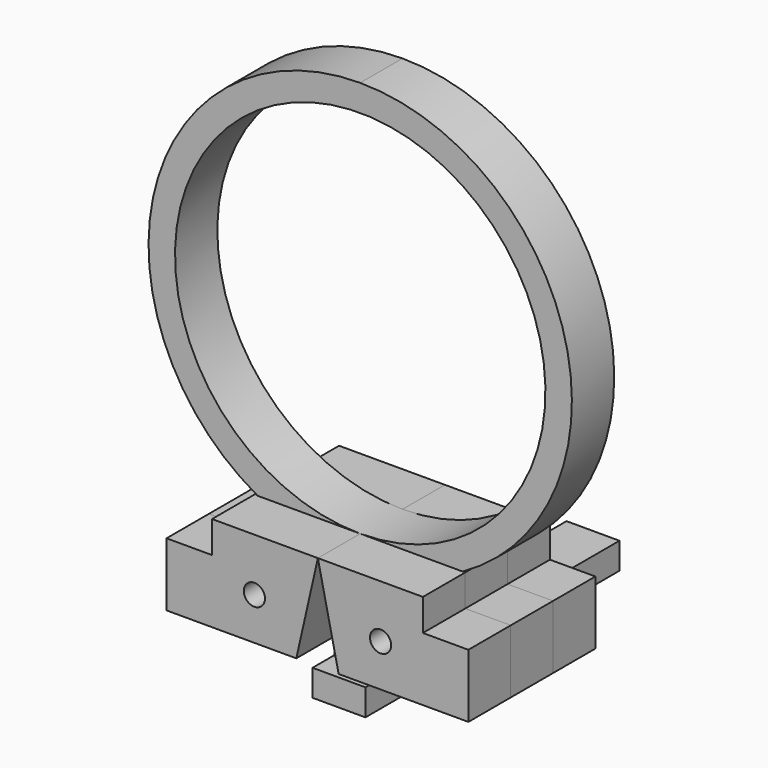
from build123d import *

# Parameters (mm, degrees)
F1_DEPTH   = 12.7
F2_DEPTH   = 6.35
F3_DEPTH   = 6.35
F5_DEPTH   = 3.175
F8_D       = 2.54
F8_DEPTH   = 25.4
F8_TIP     = 0.7630929862
F8_2_D     = 2.54
F8_2_DEPTH = 25.4
F8_2_TIP   = 0.7630929862
F9_D       = 2.54
F9_DEPTH   = 25.4
F9_TIP     = 0.7630929862
F9_2_D     = 2.54
F9_2_DEPTH = 25.4
F9_2_TIP   = 0.7630929862


with BuildPart() as f1:
    # F0 (on Front) → F1 (new body)
    with BuildSketch(Plane.XZ):
        with BuildLine():
            Line((12.6008983988, 3.1746178865), (12.29603147, 3.1746178865))
            ThreePointArc((12.29603147, 3.1746178865), (7.7922258762, 1.2247809546), (2.9975086375, 0.1774913625))
            Line((2.9975086375, 0.1774913625), (0, 3.1746178865))
            Line((0, 3.1746178865), (2.4904491994, -8.2553821135))
            Line((2.4904491994, -8.2553821135), (18.0618983988, -8.2553821135))
            Line((18.0618983988, -8.2553821135), (18.0618983988, -0.6353821135))
            Line((18.0618983988, -0.6353821135), (12.6008983988, -0.6353821135))
            Line((12.6008983988, -0.6353821135), (12.6008983988, 3.1746178865))
        make_face()
        with BuildLine():
            ThreePointArc((2.9975086375, 0.1774913625), (7.7922258762, 1.2247809546), (12.29603147, 3.1746178865))
            Line((12.29603147, 3.1746178865), (0, 3.1746178865))
            Line((0, 3.1746178865), (2.9975086375, 0.1774913625))
        make_face()
    extrude(amount=F1_DEPTH)



with BuildPart() as f1b:
    # F0 (on Front) → F1, piece 2 (new body)
    with BuildSketch(Plane.XZ):
        with BuildLine():
            ThreePointArc((-2.9975086375, 0.1774913625), (-7.7922258762, 1.2247809546), (-12.29603147, 3.1746178865))
            Line((-12.29603147, 3.1746178865), (-12.7, 3.1746178865))
            Line((-12.7, 3.1746178865), (-12.7, -0.6353821135))
            Line((-12.7, -0.6353821135), (-18.161, -0.6353821135))
            Line((-18.161, -0.6353821135), (-18.161, -8.2553821135))
            Line((-18.161, -8.2553821135), (-2.5895508006, -8.2553821135))
            Line((-2.5895508006, -8.2553821135), (0, 3.1746178865))
            Line((0, 3.1746178865), (-2.9975086375, 0.1774913625))
        make_face()
        with BuildLine():
            Line((0, 3.1746178865), (-12.29603147, 3.1746178865))
            ThreePointArc((-12.29603147, 3.1746178865), (-7.7922258762, 1.2247809546), (-2.9975086375, 0.1774913625))
            Line((-2.9975086375, 0.1774913625), (0, 3.1746178865))
        make_face()
    extrude(amount=F1_DEPTH)


with BuildPart() as f1_1:
    add(f1.part)

    add(f1b.part)  # F2 merges F1b
    # F1_face (on face) → F2 (join)
    with BuildSketch(Plane(origin=(8.9471233845, 0, -2.8446774946), x_dir=(1, 0, 0), z_dir=(0, 1, 0))):
        Polygon((3.6537750143, -6.0192953811), (3.6537750143, -2.2092953811), (9.1147750143, -2.2092953811), (9.1147750143, 5.4107046189), (-6.4566741851, 5.4107046189), (-8.9471233845, -6.0192953811), align=None)
        Polygon((-21.6471233845, -2.2092953811), (-21.6471233845, -6.0192953811), (-8.9471233845, -6.0192953811), (-11.5366741851, 5.4107046189), (-27.1081233845, 5.4107046189), (-27.1081233845, -2.2092953811), align=None)
    extrude(amount=F2_DEPTH)

    # F8
    with Locations(Plane.XZ.offset(12.7)):
        with Locations((-7.62, -3.1753821135)):
            Hole(F8_D / 2, depth=F8_DEPTH)
            with Locations((0, 0, -(F8_DEPTH + F8_TIP / 2))):  # 118° drill point
                Cone(0, F8_D / 2, F8_TIP, mode=Mode.SUBTRACT)

    # F9
    with Locations(Plane.XZ.offset(12.7)):
        with Locations((7.5208983988, -3.1753821135)):
            Hole(F9_D / 2, depth=F9_DEPTH)
            with Locations((0, 0, -(F9_DEPTH + F9_TIP / 2))):  # 118° drill point
                Cone(0, F9_D / 2, F9_TIP, mode=Mode.SUBTRACT)


with BuildPart() as f3:
    # F0 (on Front) → F3 (new body)
    with BuildSketch(Plane.XZ):
        with BuildLine():
            ThreePointArc((12.29603147, 3.1746178865), (24.5935429095, 31.749617875), (0, 50.8))
            add(Edge.make_bspline(
                [(0, 50.8), (0.7272849168, 50.2708160224), (2.1817833798, 49.2123954852), (0.7272373343, 48.1545314692), (0, 47.6253821135)],
                knots=[0, 0, 0, 0, 0.5000163567, 1, 1, 1, 1], degree=3))
            ThreePointArc((0, 47.6253821135), (22.2253821135, 25.4), (0, 3.1746178865))
            Line((0, 3.1746178865), (12.29603147, 3.1746178865))
        make_face()
        with BuildLine():
            add(Edge.make_bspline(
                [(0, 50.8), (0.7272849168, 50.2708160224), (2.1817833798, 49.2123954852), (0.7272373343, 48.1545314692), (0, 47.6253821135)],
                knots=[0, 0, 0, 0, 0.5000163567, 1, 1, 1, 1], degree=3))
            ThreePointArc((0, 50.8), (-24.5935429095, 31.749617875), (-12.29603147, 3.1746178865))
            Line((-12.29603147, 3.1746178865), (0, 3.1746178865))
            ThreePointArc((0, 3.1746178865), (-22.2253821135, 25.4), (0, 47.6253821135))
        make_face()
        with BuildLine():
            Line((12.6008983988, 3.1746178865), (12.29603147, 3.1746178865))
            ThreePointArc((12.29603147, 3.1746178865), (7.7922258762, 1.2247809546), (2.9975086375, 0.1774913625))
            Line((2.9975086375, 0.1774913625), (0, 3.1746178865))
            Line((0, 3.1746178865), (2.4904491994, -8.2553821135))
            Line((2.4904491994, -8.2553821135), (18.0618983988, -8.2553821135))
            Line((18.0618983988, -8.2553821135), (18.0618983988, -0.6353821135))
            Line((18.0618983988, -0.6353821135), (12.6008983988, -0.6353821135))
            Line((12.6008983988, -0.6353821135), (12.6008983988, 3.1746178865))
        make_face()
        with BuildLine():
            ThreePointArc((2.9975086375, 0.1774913625), (7.7922258762, 1.2247809546), (12.29603147, 3.1746178865))
            Line((12.29603147, 3.1746178865), (0, 3.1746178865))
            Line((0, 3.1746178865), (2.9975086375, 0.1774913625))
        make_face()
        with BuildLine():
            Line((0, 3.1746178865), (-12.29603147, 3.1746178865))
            ThreePointArc((-12.29603147, 3.1746178865), (-7.7922258762, 1.2247809546), (-2.9975086375, 0.1774913625))
            Line((-2.9975086375, 0.1774913625), (0, 3.1746178865))
        make_face()
        with BuildLine():
            ThreePointArc((-2.9975086375, 0.1774913625), (-7.7922258762, 1.2247809546), (-12.29603147, 3.1746178865))
            Line((-12.29603147, 3.1746178865), (-12.7, 3.1746178865))
            Line((-12.7, 3.1746178865), (-12.7, -0.6353821135))
            Line((-12.7, -0.6353821135), (-18.161, -0.6353821135))
            Line((-18.161, -0.6353821135), (-18.161, -8.2553821135))
            Line((-18.161, -8.2553821135), (-2.5895508006, -8.2553821135))
            Line((-2.5895508006, -8.2553821135), (0, 3.1746178865))
            Line((0, 3.1746178865), (-2.9975086375, 0.1774913625))
        make_face()
        Polygon((2.4904491994, -8.2553821135), (0, 3.1746178865), (-2.5895508006, -8.2553821135), (-3.1507832271, -10.7326019591), (3.0311952883, -10.737154397), align=None)
    extrude(amount=F3_DEPTH)

    # F4 (on face) → F5 (join)
    with BuildSketch(Plane(origin=(-0.0079052427, 0, -10.7349163891), x_dir=(0.9999997289, 0, -0.0007364045), z_dir=(-0.0007364045, 0, -0.9999997289))):
        Polygon((3.175, -3.175), (3.175, 9.525), (-3.175, 9.525), (-3.175, -3.175), (-3.175, -28.575), (3.175, -28.575), align=None)
        Polygon((3.039101355, 0), (0, 0), (-3.1428788366, 0), (-3.1428788366, 6.35), (0, 6.35), (3.039101355, 6.35), align=None, mode=Mode.SUBTRACT)
    extrude(amount=F5_DEPTH)

    # F8#2
    with Locations(Plane.XZ.offset(12.7)):
        with Locations((-7.62, -3.1753821135)):
            Hole(F8_2_D / 2, depth=F8_2_DEPTH)
            with Locations((0, 0, -(F8_2_DEPTH + F8_2_TIP / 2))):  # 118° drill point
                Cone(0, F8_2_D / 2, F8_2_TIP, mode=Mode.SUBTRACT)

    # F9#2
    with Locations(Plane.XZ.offset(12.7)):
        with Locations((7.5208983988, -3.1753821135)):
            Hole(F9_2_D / 2, depth=F9_2_DEPTH)
            with Locations((0, 0, -(F9_2_DEPTH + F9_2_TIP / 2))):  # 118° drill point
                Cone(0, F9_2_D / 2, F9_2_TIP, mode=Mode.SUBTRACT)


solid = Compound([f1_1.part, f3.part])
